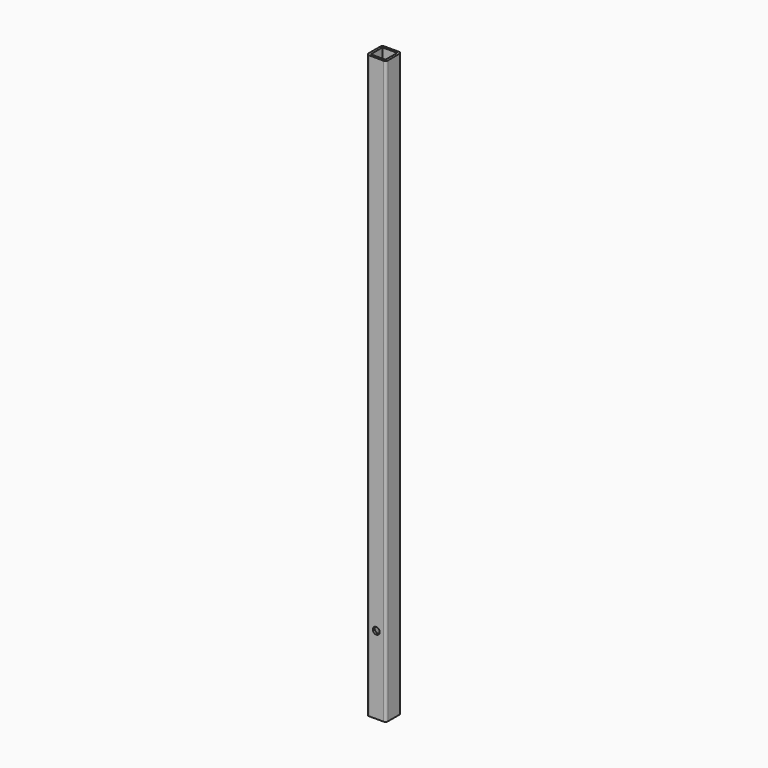
from build123d import *

# Parameters (mm, degrees)
F0_W     = 25.4
F0_H     = 25.4
F1_DEPTH = 762
F2_R     = 3.175
F3_T     = -3.048
F4_R     = 4.5
F5_DEPTH = 12.7


with BuildPart() as f1:
    # F0 (on Top) → F1 (new body)
    with BuildSketch(Plane.XY):
        Rectangle(F0_W, F0_H)
    extrude(amount=-F1_DEPTH)

    # F2
    f2_edges = [f1.edges().sort_by_distance(p)[0] for p in [
        (-12.7, 12.7, -381),
        (-12.7, -12.7, -381),
        (12.7, 12.7, -381),
        (12.7, -12.7, -381),
    ]]
    fillet(f2_edges, radius=F2_R)

    # F3
    f3_openings = [f1.faces().sort_by_distance(p)[0] for p in [
        (0, 0, 0),
        (0, 0, -762),
    ]]
    offset(amount=F3_T, openings=f3_openings)

    # F4 (on Front) → F5 (cut, through all)
    with BuildSketch(Plane.XZ):
        with Locations((0, -660.4)):
            Circle(F4_R)
    extrude(amount=F5_DEPTH, mode=Mode.SUBTRACT)


solid = f1.part
